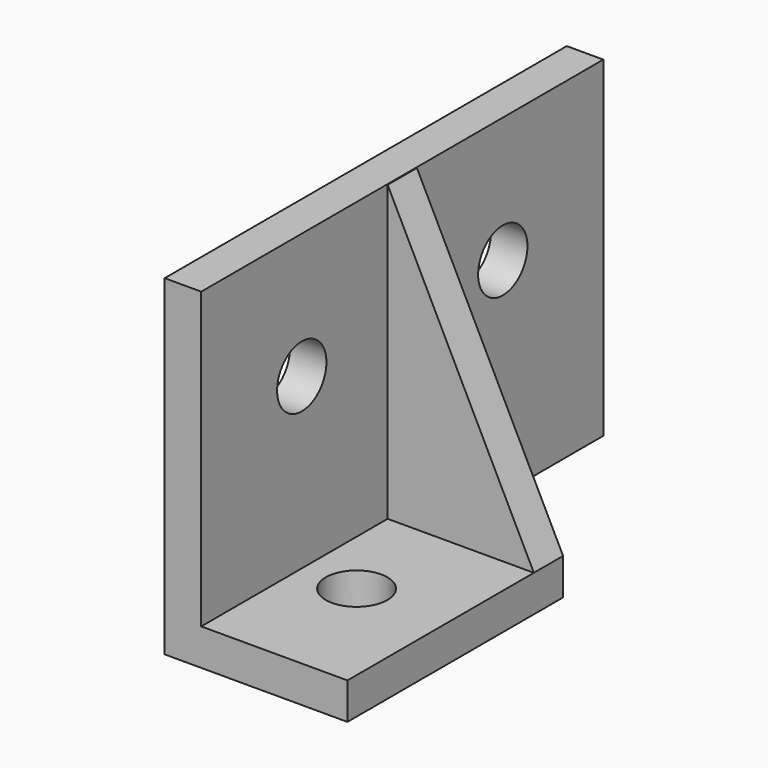
from build123d import *

# Parameters (mm, degrees)
CYLINDER002_R     = 1.35
CYLINDER002_DEPTH = 10
CYLINDER001_R     = 1.35
CYLINDER001_DEPTH = 10
CYLINDER_R        = 1.35
CYLINDER_DEPTH    = 10
BOX_W             = 1.6
BOX_H             = 22
BOX_DEPTH         = 14.5
BOX001_W          = 6.4
BOX001_H          = 11.8
BOX001_DEPTH      = 1.6
EXTRUDE_DEPTH     = 1.6


with BuildPart() as cylinder002:
    # Cylinder002 → Cylinder002 (new body)
    with BuildSketch(Plane(origin=(4, 5.5, 0), x_dir=(1, 0, 0), z_dir=(0, 0, 1))):
        Circle(CYLINDER002_R)
    extrude(amount=CYLINDER002_DEPTH)


with BuildPart() as cylinder001:
    # Cylinder001 → Cylinder001 (new body)
    with BuildSketch(Plane(origin=(0, 16.5, 9), x_dir=(0, 0, -1), z_dir=(1, 0, 0))):
        Circle(CYLINDER001_R)
    extrude(amount=CYLINDER001_DEPTH)


with BuildPart() as cylinder:
    # Cylinder → Cylinder (new body)
    with BuildSketch(Plane(origin=(0, 5.5, 9), x_dir=(0, 0, -1), z_dir=(1, 0, 0))):
        Circle(CYLINDER_R)
    extrude(amount=CYLINDER_DEPTH)


with BuildPart() as cut001:
    # Box → Box (new body)
    with BuildSketch(Plane.XY):
        with Locations((0.8, 11)):
            Rectangle(BOX_W, BOX_H)
    extrude(amount=BOX_DEPTH)

    # Cut: cut Cylinder
    add(cylinder.part, mode=Mode.SUBTRACT)

    # Cut001: cut Cylinder001
    add(cylinder001.part, mode=Mode.SUBTRACT)


with BuildPart() as cut002:
    # Box001 → Box001 (new body)
    with BuildSketch(Plane(origin=(1.6, 0, 0), x_dir=(1, 0, 0), z_dir=(0, 0, 1))):
        with Locations((3.2, 5.9)):
            Rectangle(BOX001_W, BOX001_H)
    extrude(amount=BOX001_DEPTH)

    # Connect: union Cut001
    add(cut001.part)

    # Cut002: cut Cylinder002
    add(cylinder002.part, mode=Mode.SUBTRACT)


with BuildPart() as extrude_body:
    # Sketch → Extrude (new body)
    with BuildSketch(Plane.XZ):
        Polygon((1.593675, 14.483153), (1.593675, 1.60001), (7.999931, 1.60001), align=None)
    extrude(amount=EXTRUDE_DEPTH)


with BuildPart() as extrude_body_1:
    # Extrude placement: moved
    add(extrude_body.part.moved(Location((0, 11.8, 0))))


solid = Compound([cut002.part, extrude_body_1.part])
